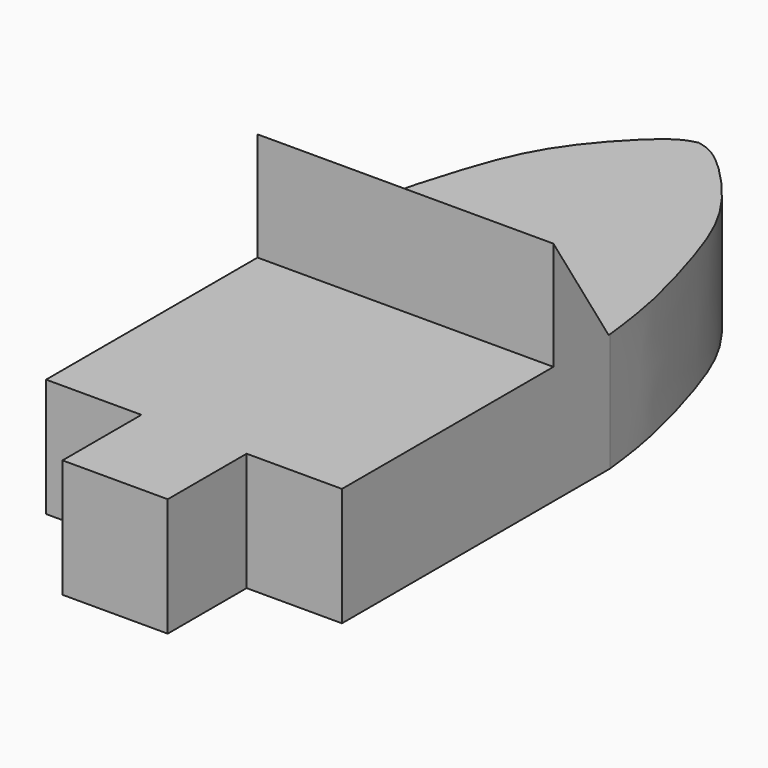
from build123d import *

# Parameters (mm, degrees)
F0_W     = 812.8
F0_H     = 762
F1_DEPTH = 914.4
F3_DEPTH = 2286


with BuildPart() as f1:
    # F0 (on Top) → F1 (new body)
    with BuildSketch(Plane.XY):
        with BuildLine():
            add(Edge.make_bspline(
                [(0, 2286), (35.9820604796, 2277.4513637927), (130.860270911, 2254.9101503612), (385.9417236513, 2030.6884089768), (707.8901406024, 1634.0232301839), (890.9731328958, 1162.4945728731), (1082.8382796299, 494.3762388073), (1124.0735875696, 155.5269452718), (1143, 0)],
                knots=[0, 0, 0, 0, 0.0897351549, 0.2366154354, 0.4205047979, 0.6052685178, 0.818823935, 1, 1, 1, 1], degree=3))
            add(Edge.make_bspline(
                [(0, 2286), (-35.9820604796, 2277.4513637927), (-130.860270911, 2254.9101503612), (-385.9417236513, 2030.6884089768), (-707.8901406024, 1634.0232301839), (-890.9731328958, 1162.4945728731), (-1082.8382796299, 494.3762388073), (-1124.0735875696, 155.5269452718), (-1143, 0)],
                knots=[0, 0, 0, 0, 0.0897351549, 0.2366154354, 0.4205047979, 0.6052685178, 0.818823935, 1, 1, 1, 1], degree=3))
            Line((-1143, 0), (-1143, -2590.8))
            Line((-1143, -2590.8), (-406.4, -2590.8))
            Line((-406.4, -2590.8), (406.4, -2590.8))
            Line((406.4, -2590.8), (1143, -2590.8))
            Line((1143, -2590.8), (1143, 0))
        make_face()
        with Locations((0, -2971.8)):
            Rectangle(F0_W, F0_H)
    extrude(amount=F1_DEPTH)

    # F2 (on face) → F3 (join)
    with BuildSketch(Plane.YZ.offset(1143)):
        Polygon((-548.7188048129, 914.4), (-15.319125741, 913.8148794665), (-548.7188048129, 1752.6), align=None)
    extrude(amount=-F3_DEPTH)


solid = f1.part
